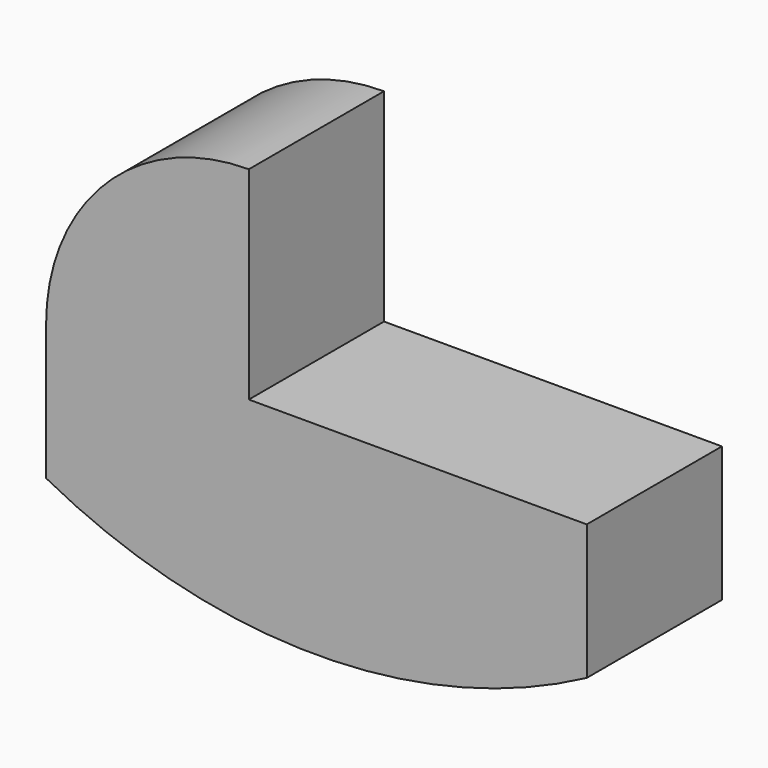
from build123d import *

# Parameters (mm, degrees)
F1_DEPTH = 25


with BuildPart() as f1:
    # F0 (on Front) → F1 (new body)
    with BuildSketch(Plane.XZ):
        with BuildLine():
            Line((67.495717, -19.017115), (67.495717, 0.982885))
            Line((67.495717, 0.982885), (17.495717, 0.982885))
            Line((17.495717, 0.982885), (17.495717, 30.982885))
            ThreePointArc((17.495717, 30.982885), (-3.717487, 22.196089), (-12.504283, 0.982885))
            Line((-12.504283, 0.982885), (-12.504283, -19.017115))
            ThreePointArc((-12.504283, -19.017115), (27.495717, -29.017115), (67.495717, -19.017115))
        make_face()
    extrude(amount=F1_DEPTH)


solid = f1.part
